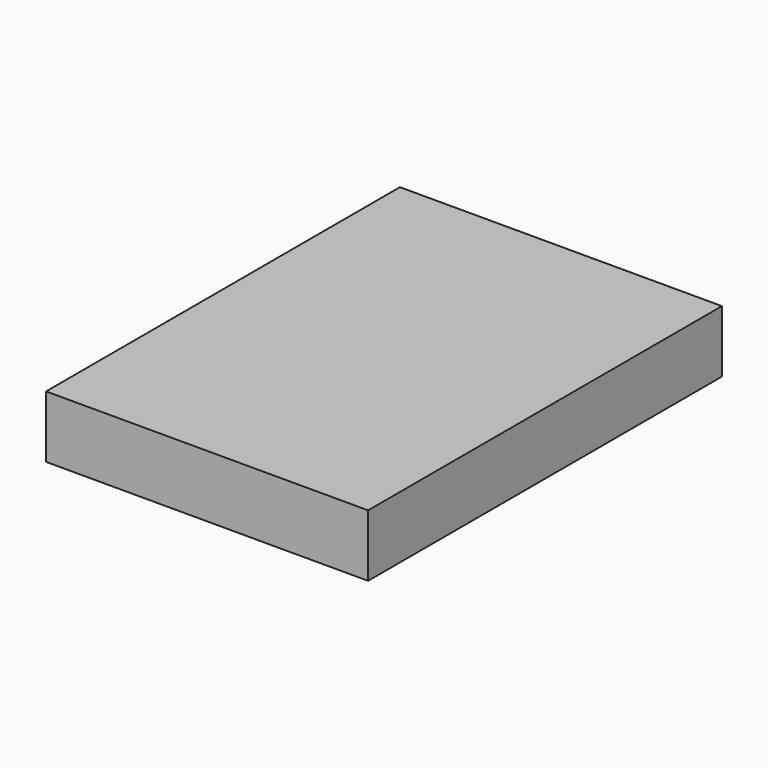
from build123d import *

# Parameters (mm, degrees)
F0_W          = 263.525
F0_H          = 361.95
F1_DEPTH      = 10.16
F1_DEPTH_BACK = 10.16
F2_DEPTH      = 25.4
F2_DEPTH_BACK = 25.4


with BuildPart() as f1:
    # F0 (on Top) → F1 (new body, two sides)
    with BuildSketch(Plane.XY) as f1_sk:
        Rectangle(F0_W, F0_H)
    extrude(amount=F1_DEPTH)
    extrude(f1_sk.sketch, amount=-F1_DEPTH_BACK)


with BuildPart() as f2:
    # F0 (on Top) → F2 (new body, two sides)
    with BuildSketch(Plane.XY) as f2_sk:
        Rectangle(F0_W, F0_H)
    extrude(amount=F2_DEPTH)
    extrude(f2_sk.sketch, amount=-F2_DEPTH_BACK)


solid = Compound([f1.part, f2.part])
